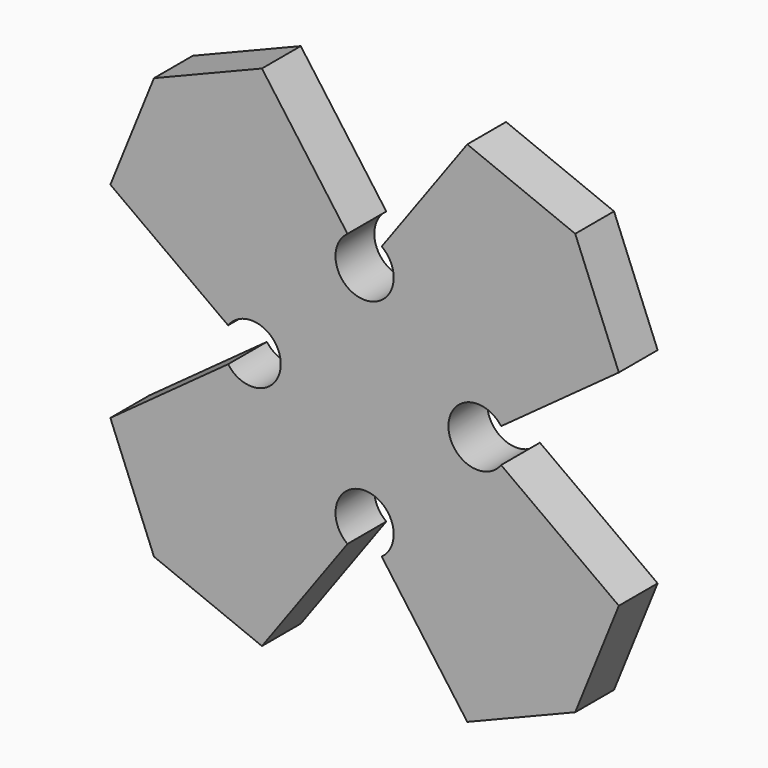
from build123d import *

# Parameters (mm, degrees)
F1_DEPTH = 127


with BuildPart() as f1:
    # F0 (on Front) → F1 (new body)
    with BuildSketch(Plane.XZ):
        with BuildLine():
            Line((-563.192896, -166.407167), (-449.012806, -449.012806))
            Line((-449.012806, -449.012806), (-166.407167, -563.192896))
            Line((-166.407167, -563.192896), (57.539014, -254.957421))
            ThreePointArc((57.539014, -254.957421), (102.32825, -117.110326), (147.117486, -254.957421))
            Line((147.117486, -254.957421), (371.063668, -563.192896))
            Line((371.063668, -563.192896), (653.669306, -449.012806))
            Line((653.669306, -449.012806), (767.849396, -166.407167))
            Line((767.849396, -166.407167), (459.613921, 57.539014))
            ThreePointArc((459.613921, 57.539014), (321.766826, 102.32825), (459.613921, 147.117486))
            Line((459.613921, 147.117486), (767.849396, 371.063668))
            Line((767.849396, 371.063668), (653.669306, 653.669306))
            Line((653.669306, 653.669306), (371.063668, 767.849396))
            Line((371.063668, 767.849396), (147.117486, 459.613921))
            ThreePointArc((147.117486, 459.613921), (102.32825, 321.766826), (57.539014, 459.613921))
            Line((57.539014, 459.613921), (-166.407167, 767.849396))
            Line((-166.407167, 767.849396), (-449.012806, 653.669306))
            Line((-449.012806, 653.669306), (-563.192896, 371.063668))
            Line((-563.192896, 371.063668), (-254.957421, 147.117486))
            ThreePointArc((-254.957421, 147.117486), (-117.110326, 102.32825), (-254.957421, 57.539014))
            Line((-254.957421, 57.539014), (-563.192896, -166.407167))
        make_face()
    extrude(amount=F1_DEPTH)


solid = f1.part
